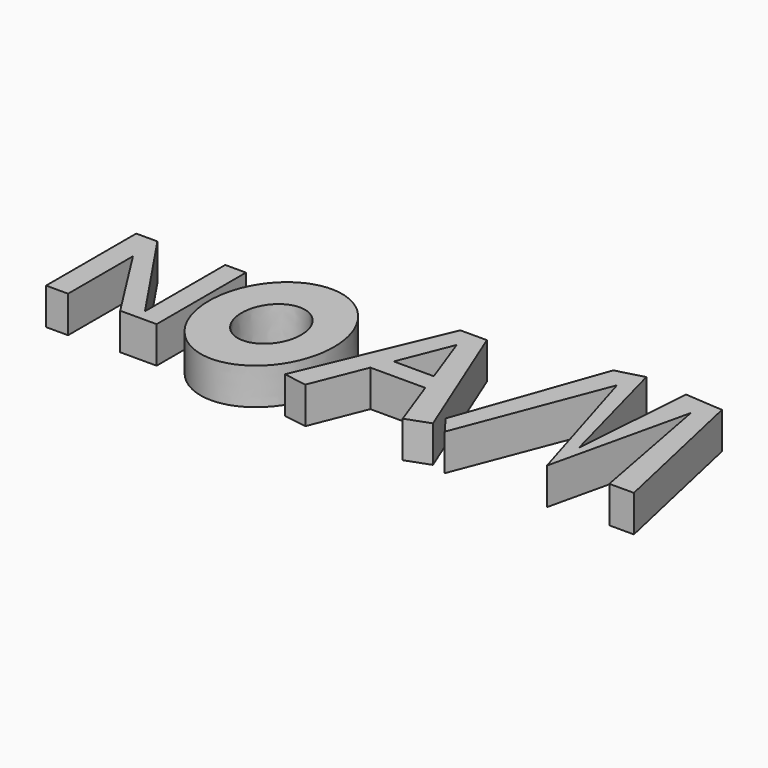
from build123d import *

# Parameters (mm, degrees)
F1_DEPTH = 25


with BuildPart() as f1:
    # F0 (on Top) → F1 (new body)
    with BuildSketch(Plane.XY):
        with BuildLine():
            add(Edge.make_bspline(
                [(-29.434795, -63.757111), (44.566638, -63.757111), (7.565922, 13.503275), (-29.434795, 90.763662), (-66.435511, 13.503275), (-103.436227, -63.757111), (-29.434795, -63.757111)],
                knots=[0, 0, 0, 2.094395, 2.094395, 4.18879, 4.18879, 6.283185, 6.283185, 6.283185], degree=2, weights=[1, 0.5, 1, 0.5, 1, 0.5, 1]))
        make_face()
        with BuildLine():
            add(Edge.make_bspline(
                [(-29.434795, -36.679001), (5.82996, -36.679001), (-11.802417, -0.03578), (-29.434795, 36.607441), (-47.067172, -0.03578), (-64.699549, -36.679001), (-29.434795, -36.679001)],
                knots=[0, 0, 0, 2.094395, 2.094395, 4.18879, 4.18879, 6.283185, 6.283185, 6.283185], degree=2, weights=[1, 0.5, 1, 0.5, 1, 0.5, 1]))
        make_face(mode=Mode.SUBTRACT)
        Polygon((-91.217712, -42.97284), (-136.457667, 24.201287), (-150.943905, 24.201287), (-150.943905, -52.763574), (-135.921061, -52.763574), (-135.921061, 2.682654), (-101.940796, -50.737903), (-77.038027, -50.737903), (-77.038027, 25.562307), (-91.217712, 25.562307), align=None)
        Polygon((48.650134, -5.341723), (62.97116, 30.53952), (76.004256, -5.341723), (80.847336, -18.675143), (93.666606, -53.967703), (109.673289, -48.153617), (72.066106, 44.939853), (53.876206, 44.939853), (12.569981, -53.209793), (28.552599, -55.695975), (43.328461, -18.675143), align=None)
        Polygon((76.004256, -5.341723), (48.650134, -5.341723), (43.328461, -18.675143), (80.847336, -18.675143), align=None)
        Polygon((111.371249, -39.42702), (120.572492, -51.693965), (158.847049, 47.592547), (187.64773, -48.283365), (209.627181, 47.213592), (226.774365, -43.889947), (243.567452, -43.889947), (220.292374, 60.385879), (194.248363, 62.282998), (188.136627, -21.620088), (165.128231, 64.755335), (146.512469, 59.796531), align=None)
    extrude(amount=F1_DEPTH)


solid = f1.part
